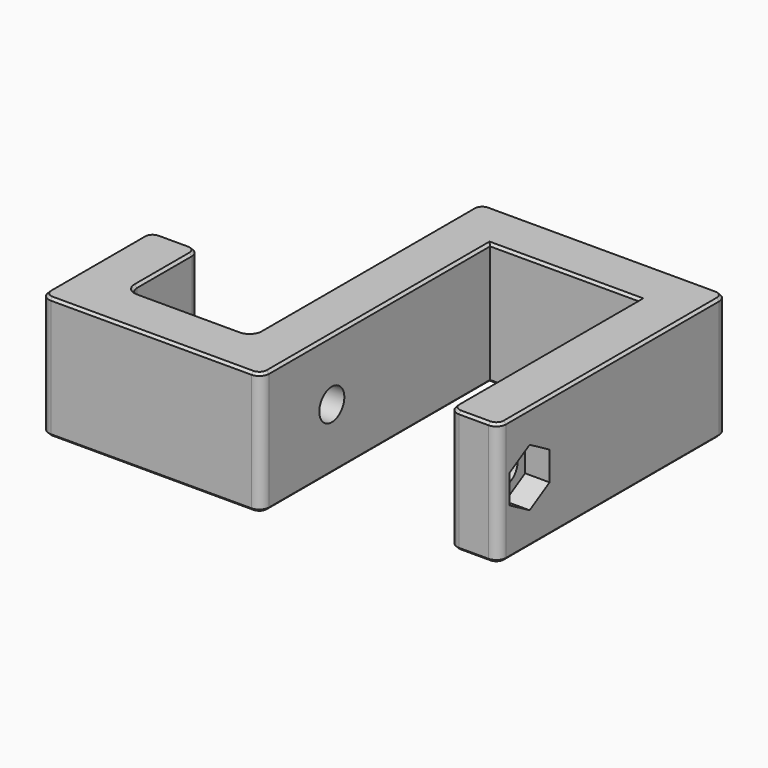
from build123d import *

# Parameters (mm, degrees)
F0_W          = 10
F0_H          = 18
F1_DEPTH      = 25
F2_R          = 3.2
F3_DEPTH      = 50.401
F3_DEPTH_BACK = 35.001
F2_R_2        = 5.2
F4_DEPTH      = 5
F4_DEPTH_BACK = 35.001
F5_R          = 3.2
F6_DEPTH      = 5
F7_R          = 2
F8_SIZE       = 0.5


with BuildPart() as f1:
    # F0 (on Top) → F1 (new body)
    with BuildSketch(Plane.XY):
        Polygon((-15.2, 15.2), (15.2, 15.2), (15.2, -33.2), (25.2, -33.2), (25.2, 25.2), (-25.2, 25.2), (-25.2, -33.2), (-15.2, -33.2), align=None)
        Polygon((-15.2, -43.2), (-15.2, -33.2), (-25.2, -33.2), (-50.2, -33.2), (-60.2, -33.2), (-60.2, -43.2), align=None)
        with Locations((-55.2, -24.2)):
            Rectangle(F0_W, F0_H)
    extrude(amount=F1_DEPTH)

    # F2 (on face) → F3 (cut, two sides)
    with BuildSketch(Plane(origin=(-25.2, 0, 0), x_dir=(0, -1, 0), z_dir=(-1, 0, 0))) as f3_sk:
        with Locations((25.2, 12.5)):
            Circle(F2_R)
    extrude(amount=-F3_DEPTH, mode=Mode.SUBTRACT)
    extrude(f3_sk.sketch, amount=F3_DEPTH_BACK, mode=Mode.SUBTRACT)

    # F2 (on face) → F4 (cut, two sides)
    with BuildSketch(Plane(origin=(-25.2, 0, 0), x_dir=(0, -1, 0), z_dir=(-1, 0, 0))) as f4_sk:
        with Locations((25.2, 12.5)):
            Circle(F2_R_2)
        with Locations((25.2, 12.5)):
            Circle(F2_R, mode=Mode.SUBTRACT)
    extrude(amount=-F4_DEPTH, mode=Mode.SUBTRACT)
    extrude(f4_sk.sketch, amount=F4_DEPTH_BACK, mode=Mode.SUBTRACT)

    # F5 (on face) → F6 (cut)
    with BuildSketch(Plane.YZ.offset(25.2)):
        Polygon((-30.3, 9.5555136271), (-25.2, 6.6110272543), (-20.1, 9.5555136271), (-20.1, 15.4444863729), (-25.2, 18.3889727457), (-30.3, 15.4444863729), align=None)
        with Locations((-25.2, 12.5)):
            Circle(F5_R, mode=Mode.SUBTRACT)
    extrude(amount=-F6_DEPTH, mode=Mode.SUBTRACT)

    # F7
    f7_edges = [f1.edges().sort_by_distance(p)[0] for p in [
        (-25.2, -33.2, 12.5),
        (-15.2, -43.2, 12.5),
        (15.2, -33.2, 12.5),
        (25.2, -33.2, 12.5),
        (25.2, 25.2, 12.5),
        (-50.2, -33.2, 12.5),
        (-50.2, -15.2, 12.5),
        (-60.2, -15.2, 12.5),
        (-60.2, -43.2, 12.5),
        (-25.2, 25.2, 12.5),
    ]]
    fillet(f7_edges, radius=F7_R)

    # F8
    f8_edges = [f1.edges().sort_by_distance(p)[0] for p in [
        (15.2, -8, 25),
        (15.785786, -32.614214, 25),
        (0, 15.2, 25),
        (20.2, -33.2, 25),
        (-15.2, -13, 25),
        (24.614214, -32.614214, 25),
        (-15.785786, -42.614214, 25),
        (25.2, -4, 25),
        (-37.7, -43.2, 25),
        (24.614214, 24.614214, 25),
        (-59.614214, -42.614214, 25),
        (0, 25.2, 25),
        (-60.2, -29.2, 25),
        (-24.614214, 24.614214, 25),
        (-59.614214, -15.785786, 25),
        (-25.2, -4, 25),
        (-55.2, -15.2, 25),
        (-25.785786, -32.614214, 25),
        (-50.785786, -15.785786, 25),
        (-37.7, -33.2, 25),
        (-50.2, -24.2, 25),
        (-49.614214, -32.614214, 25),
        (15.2, -8, 0),
        (15.785786, -32.614214, 0),
        (0, 15.2, 0),
        (20.2, -33.2, 0),
        (-15.2, -13, 0),
        (24.614214, -32.614214, 0),
        (-15.785786, -42.614214, 0),
        (25.2, -4, 0),
        (-37.7, -43.2, 0),
        (24.614214, 24.614214, 0),
        (-59.614214, -42.614214, 0),
        (0, 25.2, 0),
        (-60.2, -29.2, 0),
        (-24.614214, 24.614214, 0),
        (-59.614214, -15.785786, 0),
        (-25.2, -4, 0),
        (-55.2, -15.2, 0),
        (-25.785786, -32.614214, 0),
        (-50.785786, -15.785786, 0),
        (-37.7, -33.2, 0),
        (-50.2, -24.2, 0),
        (-49.614214, -32.614214, 0),
    ]]
    chamfer(f8_edges, length=F8_SIZE)


solid = f1.part
